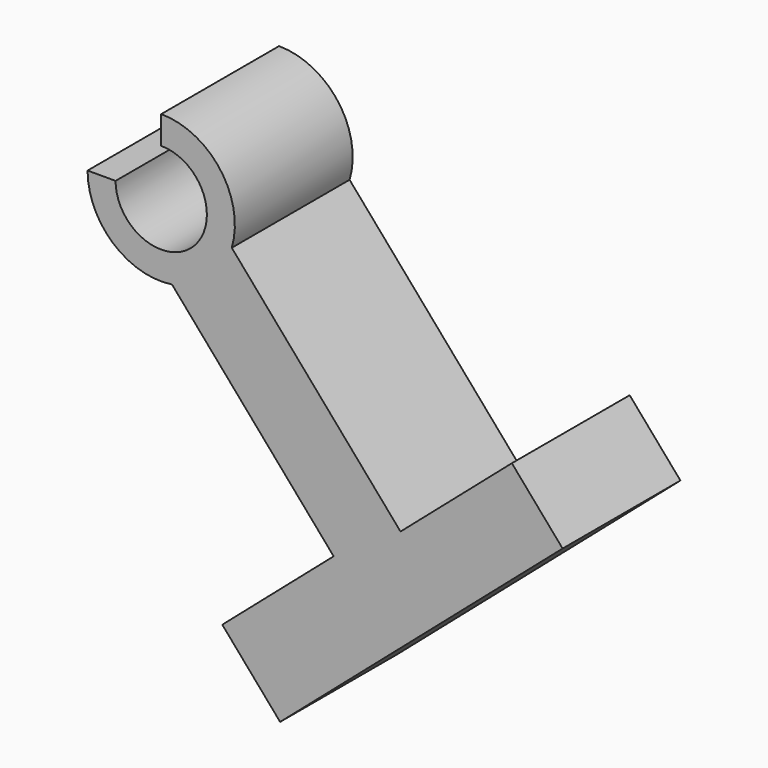
from build123d import *

# Parameters (mm, degrees)
F1_DEPTH = 10


with BuildPart() as f1:
    # F0 (on Front) → F1 (new body)
    with BuildSketch(Plane.XZ):
        with BuildLine():
            ThreePointArc((2.028823, -2.343902), (-1.288536, -2.819517), (-3.1, 0))
            Line((-3.1, 0), (-4.1, 0))
            Line((-4.1, 0), (-5, 0))
            ThreePointArc((-5, 0), (-3.266365, -3.785612), (0.732343, -4.946077))
            Line((0.732343, -4.946077), (11.706972, -17.625082))
            Line((11.706972, -17.625082), (4.145997, -24.169672))
            Line((4.145997, -24.169672), (8.072751, -28.706257))
            Line((8.072751, -28.706257), (27.252344, -12.104882))
            Line((27.252344, -12.104882), (23.807724, -8.125308))
            Line((23.807724, -8.125308), (16.246749, -14.669898))
            Line((16.246749, -14.669898), (4.789988, -1.433882))
            ThreePointArc((4.789988, -1.433882), (4.010574, 2.985849), (0, 5))
            Line((0, 5), (0, 4.1))
            Line((0, 4.1), (0, 3.1))
            ThreePointArc((0, 3.1), (2.904832, 1.082567), (2.028823, -2.343902))
        make_face()
    extrude(amount=F1_DEPTH)


solid = f1.part
